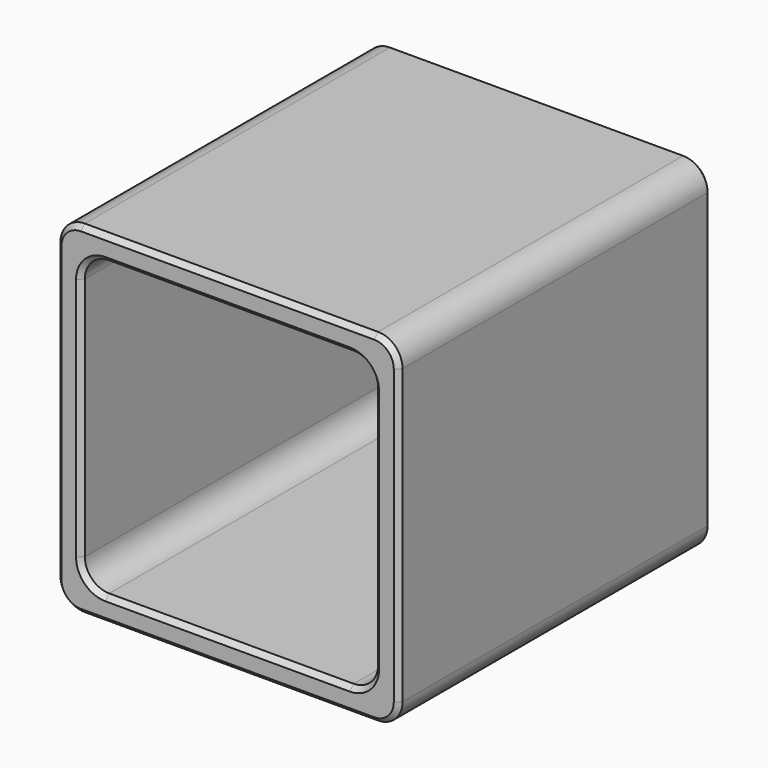
from build123d import *

# Parameters (mm, degrees)
F1_DEPTH = 400
F2_SIZE  = 5


with BuildPart() as f1:
    # F0 (on Front) → F1 (new body)
    with BuildSketch(Plane.XZ):
        with BuildLine():
            ThreePointArc((0, 25), (7.32233, 7.32233), (25, 0))
            Line((25, 0), (325, 0))
            ThreePointArc((325, 0), (342.67767, 7.32233), (350, 25))
            Line((350, 25), (350, 325))
            ThreePointArc((350, 325), (342.67767, 342.67767), (325, 350))
            Line((325, 350), (25, 350))
            ThreePointArc((25, 350), (7.32233, 342.67767), (0, 325))
            Line((0, 325), (0, 25))
        make_face()
        with BuildLine():
            ThreePointArc((25, 300), (32.32233, 317.67767), (50, 325))
            Line((50, 325), (300, 325))
            ThreePointArc((300, 325), (317.67767, 317.67767), (325, 300))
            Line((325, 300), (325, 50))
            ThreePointArc((325, 50), (317.67767, 32.32233), (300, 25))
            Line((300, 25), (50, 25))
            ThreePointArc((50, 25), (32.32233, 32.32233), (25, 50))
            Line((25, 50), (25, 300))
        make_face(mode=Mode.SUBTRACT)
    extrude(amount=F1_DEPTH)

    # F2
    f2_edges = [f1.edges().sort_by_distance(p)[0] for p in [
        (0, -400, 175),
        (25, -400, 175),
        (175, 0, 350),
        (175, 0, 325),
    ]]
    chamfer(f2_edges, length=F2_SIZE)


solid = f1.part
